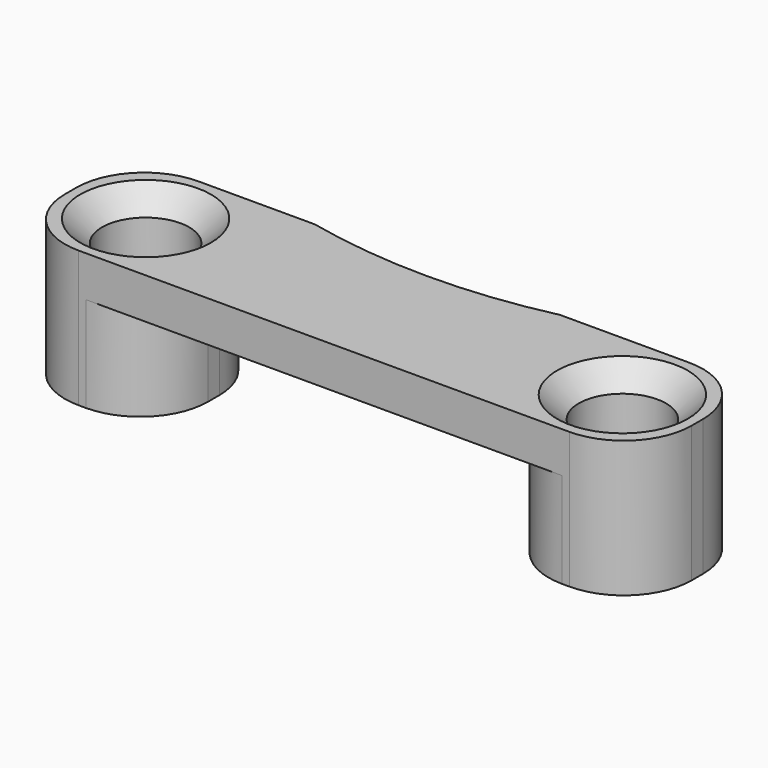
from build123d import *

# Parameters (mm, degrees)
PAD_DEPTH       = 5.5
SKETCH001_R     = 1.6
POCKET_DEPTH    = 10
CHAMFER_SIZE    = 0.8
FILLET_R        = 2.49
SKETCH002_R     = 20.5
POCKET001_DEPTH = 2.5


with BuildPart() as part:
    # Sketch → Pad (new body)
    with BuildSketch(Plane.XZ):
        Polygon((0, 0), (0, -5), (5.25, -5), (5.25, -1.5), (17.75, -1.5), (17.75, -5), (23, -5), (23, 0), align=None)
    extrude(amount=PAD_DEPTH)

    # Sketch001 → Pocket (cut)
    with BuildSketch(Plane.XY):
        with Locations((2.75, -2.75)):
            Circle(SKETCH001_R)
        with Locations((20.25, -2.75)):
            Circle(SKETCH001_R)
    extrude(amount=-POCKET_DEPTH, mode=Mode.SUBTRACT)

    # Chamfer
    chamfer_edges = [part.edges().sort_by_distance(p)[0] for p in [
        (1.15, -2.75, 0),
        (18.65, -2.75, 0),
    ]]
    chamfer(chamfer_edges, length=CHAMFER_SIZE)

    # Fillet
    fillet_edges = [part.edges().sort_by_distance(p)[0] for p in [
        (0, -5.5, -2.5),
        (0, 0, -2.5),
        (23, 0, -2.5),
        (23, -5.5, -2.5),
        (5.25, -5.5, -3.25),
        (5.25, 0, -3.25),
        (17.75, -5.5, -3.25),
        (17.75, 0, -3.25),
    ]]
    fillet(fillet_edges, radius=FILLET_R)

    # Sketch002 → Pocket001 (cut)
    with BuildSketch(Plane.XY):
        with Locations((11.259596, 20)):
            Circle(SKETCH002_R)
    extrude(amount=-POCKET001_DEPTH, mode=Mode.SUBTRACT)


solid = part.part
